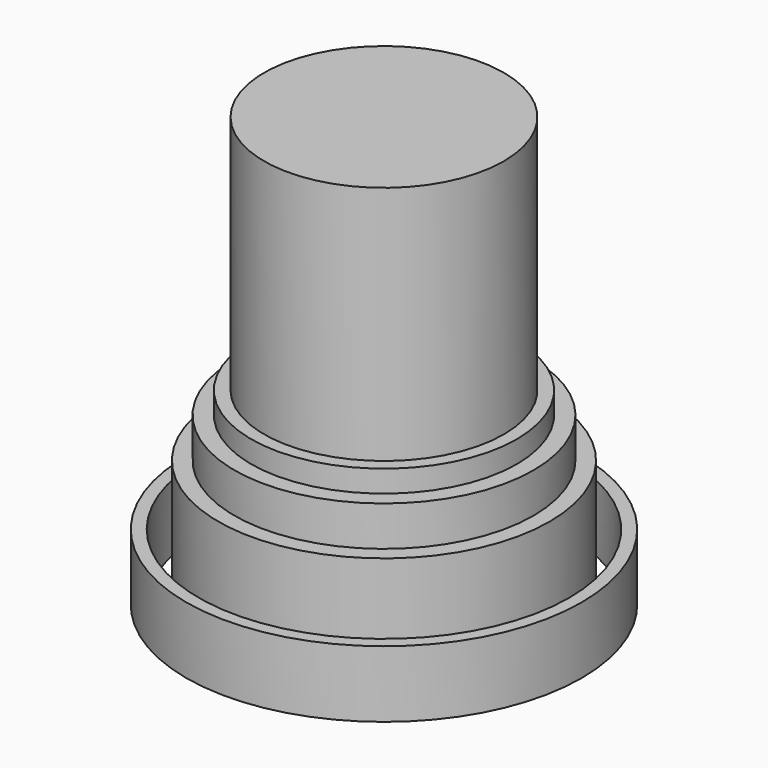
from build123d import *

# Parameters (mm, degrees)
F0_R        = 75.4098467948
F0_R_2      = 70.6589488297
F1_DEPTH    = 25.4
F1_FACE_R   = 75.4098467948
F1_FACE_R_2 = 70.6589488297
F2_DEPTH    = 25.4
F3_R        = 63.164408374
F4_DEPTH    = 48.514
F5_R        = 57.0218847932
F6_DEPTH    = 15.24
F7_R        = 50.6708794685
F8_DEPTH    = 8.382
F9_R        = 45.7123034212
F10_DEPTH   = 91.694


with BuildPart() as f1:
    # F0 (on Top) → F1 (new body)
    with BuildSketch(Plane.XY):
        Circle(F0_R)
        Circle(F0_R_2, mode=Mode.SUBTRACT)
    extrude(amount=F1_DEPTH)

    # F0 (on Top) + F1_face (on face) → F2 (join)
    with BuildSketch(Plane.XY):
        Circle(F0_R)
        Circle(F0_R_2, mode=Mode.SUBTRACT)
    with BuildSketch(Plane(origin=(0, 0, 0), x_dir=(1, 0, 0), z_dir=(0, 0, -1))):
        Circle(F1_FACE_R)
        Circle(F1_FACE_R_2, mode=Mode.SUBTRACT)
    extrude(amount=F2_DEPTH, dir=(0, 0, 1))


with BuildPart() as f4:
    # F3 (on Top) → F4 (new body)
    with BuildSketch(Plane.XY):
        Circle(F3_R)
    extrude(amount=F4_DEPTH)

    # F5 (on face) → F6 (join)
    with BuildSketch(Plane.XY.offset(48.514)):
        Circle(F5_R)
    extrude(amount=F6_DEPTH)

    # F7 (on face) → F8 (join)
    with BuildSketch(Plane.XY.offset(63.754)):
        Circle(F7_R)
    extrude(amount=F8_DEPTH)

    # F9 (on face) → F10 (join)
    with BuildSketch(Plane.XY.offset(72.136)):
        Circle(F9_R)
    extrude(amount=F10_DEPTH)


solid = Compound([f1.part, f4.part])
